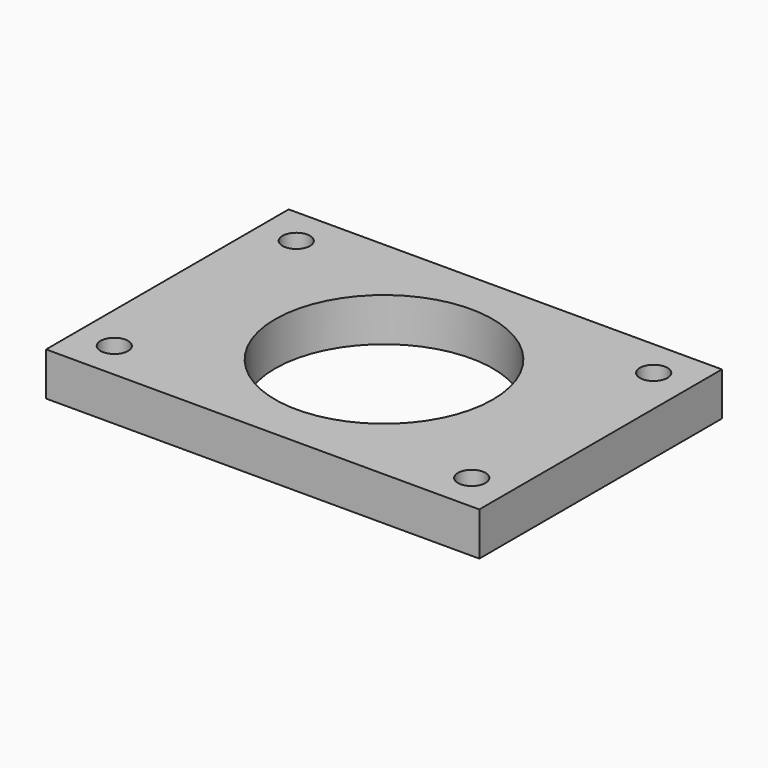
from build123d import *

# Parameters (mm, degrees)
F0_W     = 100
F0_H     = 70
F0_R     = 3.175
F0_R_2   = 25.12458
F1_DEPTH = 10


with BuildPart() as f1:
    # F0 (on Top) → F1 (new body)
    with BuildSketch(Plane.XY):
        with Locations((2.980727, -10.714075)):
            Rectangle(F0_W, F0_H)
        with Locations((-38.269273, -36.964075)):
            Circle(F0_R, mode=Mode.SUBTRACT)
        with Locations((44.230727, -36.964075)):
            Circle(F0_R, mode=Mode.SUBTRACT)
        with Locations((-38.269273, 15.535925)):
            Circle(F0_R, mode=Mode.SUBTRACT)
        with Locations((2.980727, -10.714075)):
            Circle(F0_R_2, mode=Mode.SUBTRACT)
        with Locations((44.230727, 15.535925)):
            Circle(F0_R, mode=Mode.SUBTRACT)
    extrude(amount=F1_DEPTH)


solid = f1.part
